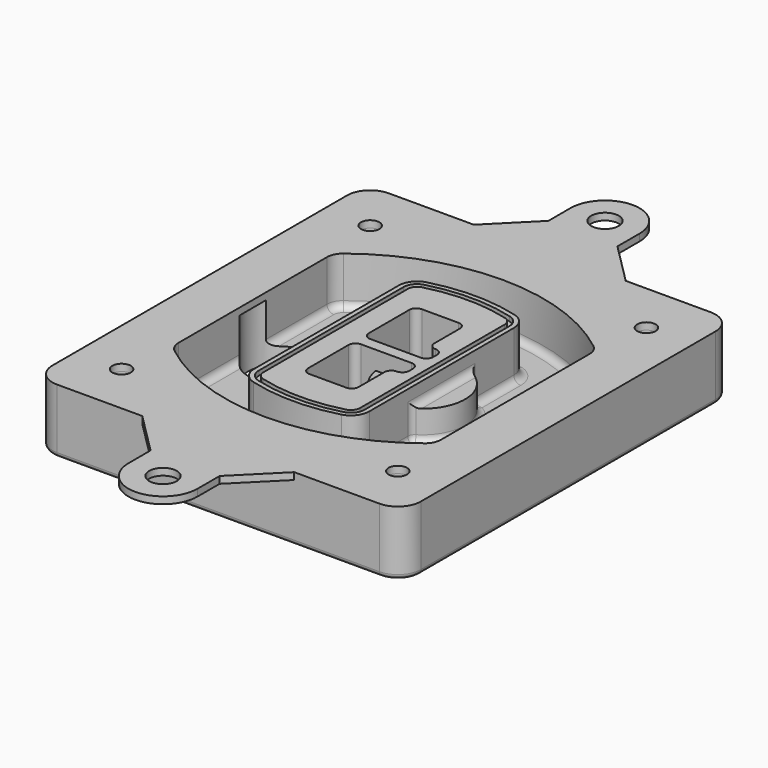
from build123d import *

# Parameters (mm, degrees)
F0_R      = 4
F1_DEPTH  = 25
F2_DEPTH  = 3
F3_DEPTH  = 18
F5_DEPTH  = 21
F6_DEPTH  = 2
F8_DEPTH  = 20
F9_DEPTH  = 16
F10_DEPTH = 25
F7_R      = 6
F7_R_2    = 4
F11_DEPTH = 6
F13_DEPTH = 9
F14_R     = 3
F15_R     = 2
F16_R     = 4
F16_R_2   = 6
F17_DEPTH = 3


with BuildPart() as f1:
    # F0 (on Top) → F1 (new body)
    with BuildSketch(Plane.XY):
        with BuildLine():
            ThreePointArc((-80, -80), (-77.0710678119, -87.0710678119), (-70, -90))
            Line((-70, -90), (70, -90))
            ThreePointArc((70, -90), (77.0710678119, -87.0710678119), (80, -80))
            Line((80, -80), (80, 80))
            ThreePointArc((80, 80), (77.0710678119, 87.0710678119), (70, 90))
            Line((70, 90), (-70, 90))
            ThreePointArc((-70, 90), (-77.0710678119, 87.0710678119), (-80, 80))
            Line((-80, 80), (-80, -80))
        make_face()
        with Locations((-60, -67.5)):
            Circle(F0_R, mode=Mode.SUBTRACT)
        with Locations((60, -67.5)):
            Circle(F0_R, mode=Mode.SUBTRACT)
        with Locations((-60, 67.5)):
            Circle(F0_R, mode=Mode.SUBTRACT)
        with BuildLine():
            ThreePointArc((-64, 40.2934422872), (-62.5820384798, 46.4328484224), (-58.6153846154, 51.3286200352))
            ThreePointArc((-58.6153846154, 51.3286200352), (0, 71.5), (58.6153846154, 51.3286200352))
            ThreePointArc((58.6153846154, 51.3286200352), (62.5820384798, 46.4328484224), (64, 40.2934422872))
            Line((64, 40.2934422872), (64, -40.2934422872))
            ThreePointArc((64, -40.2934422872), (62.5820384798, -46.4328484224), (58.6153846154, -51.3286200352))
            ThreePointArc((58.6153846154, -51.3286200352), (0, -71.5), (-58.6153846154, -51.3286200352))
            ThreePointArc((-58.6153846154, -51.3286200352), (-62.5820384798, -46.4328484224), (-64, -40.2934422872))
            Line((-64, -40.2934422872), (-64, 40.2934422872))
        make_face(mode=Mode.SUBTRACT)
        with Locations((60, 67.5)):
            Circle(F0_R, mode=Mode.SUBTRACT)
        with BuildLine():
            ThreePointArc((58.6153846154, 51.3286200352), (0, 71.5), (-58.6153846154, 51.3286200352))
            ThreePointArc((-58.6153846154, 51.3286200352), (-62.5820384798, 46.4328484224), (-64, 40.2934422872))
            Line((-64, 40.2934422872), (-64, -40.2934422872))
            ThreePointArc((-64, -40.2934422872), (-62.5820384798, -46.4328484224), (-58.6153846154, -51.3286200352))
            ThreePointArc((-58.6153846154, -51.3286200352), (0, -71.5), (58.6153846154, -51.3286200352))
            ThreePointArc((58.6153846154, -51.3286200352), (62.5820384798, -46.4328484224), (64, -40.2934422872))
            Line((64, -40.2934422872), (64, 40.2934422872))
            ThreePointArc((64, 40.2934422872), (62.5820384798, 46.4328484224), (58.6153846154, 51.3286200352))
        make_face()
        with BuildLine():
            Line((-60, -40.2934422872), (-60, 40.2934422872))
            ThreePointArc((-60, 40.2934422872), (-58.9871703427, 44.6787323838), (-56.1538461538, 48.1757121072))
            ThreePointArc((-56.1538461538, 48.1757121072), (0, 67.5), (56.1538461538, 48.1757121072))
            ThreePointArc((56.1538461538, 48.1757121072), (58.9871703427, 44.6787323838), (60, 40.2934422872))
            Line((60, 40.2934422872), (60, -40.2934422872))
            ThreePointArc((60, -40.2934422872), (58.9871703427, -44.6787323838), (56.1538461538, -48.1757121072))
            ThreePointArc((56.1538461538, -48.1757121072), (0, -67.5), (-56.1538461538, -48.1757121072))
            ThreePointArc((-56.1538461538, -48.1757121072), (-58.9871703427, -44.6787323838), (-60, -40.2934422872))
        make_face(mode=Mode.SUBTRACT)
        with BuildLine():
            ThreePointArc((-56.1538461538, 48.1757121072), (-58.9871703427, 44.6787323838), (-60, 40.2934422872))
            Line((-60, 40.2934422872), (-60, -40.2934422872))
            ThreePointArc((-60, -40.2934422872), (-58.9871703427, -44.6787323838), (-56.1538461538, -48.1757121072))
            ThreePointArc((-56.1538461538, -48.1757121072), (0, -67.5), (56.1538461538, -48.1757121072))
            ThreePointArc((56.1538461538, -48.1757121072), (58.9871703427, -44.6787323838), (60, -40.2934422872))
            Line((60, -40.2934422872), (60, 40.2934422872))
            ThreePointArc((60, 40.2934422872), (58.9871703427, 44.6787323838), (56.1538461538, 48.1757121072))
            ThreePointArc((56.1538461538, 48.1757121072), (0, 67.5), (-56.1538461538, 48.1757121072))
        make_face()
        with BuildLine():
            ThreePointArc((54.3076923077, 45.8110311612), (56.2910192399, 43.3631453548), (57, 40.2934422872))
            Line((57, 40.2934422872), (57, -40.2934422872))
            ThreePointArc((57, -40.2934422872), (56.2910192399, -43.3631453548), (54.3076923077, -45.8110311612))
            ThreePointArc((54.3076923077, -45.8110311612), (0, -64.5), (-54.3076923077, -45.8110311612))
            ThreePointArc((-54.3076923077, -45.8110311612), (-56.2910192399, -43.3631453548), (-57, -40.2934422872))
            Line((-57, -40.2934422872), (-57, 40.2934422872))
            ThreePointArc((-57, 40.2934422872), (-56.2910192399, 43.3631453548), (-54.3076923077, 45.8110311612))
            ThreePointArc((-54.3076923077, 45.8110311612), (0, 64.5), (54.3076923077, 45.8110311612))
        make_face(mode=Mode.SUBTRACT)
        with BuildLine():
            Line((57, -40.2934422872), (57, 40.2934422872))
            ThreePointArc((57, 40.2934422872), (56.2910192399, 43.3631453548), (54.3076923077, 45.8110311612))
            ThreePointArc((54.3076923077, 45.8110311612), (0, 64.5), (-54.3076923077, 45.8110311612))
            ThreePointArc((-54.3076923077, 45.8110311612), (-56.2910192399, 43.3631453548), (-57, 40.2934422872))
            Line((-57, 40.2934422872), (-57, -40.2934422872))
            ThreePointArc((-57, -40.2934422872), (-56.2910192399, -43.3631453548), (-54.3076923077, -45.8110311612))
            ThreePointArc((-54.3076923077, -45.8110311612), (0, -64.5), (54.3076923077, -45.8110311612))
            ThreePointArc((54.3076923077, -45.8110311612), (56.2910192399, -43.3631453548), (57, -40.2934422872))
        make_face()
    extrude(amount=-F1_DEPTH)

    # F0 (on Top) → F2 (join)
    with BuildSketch(Plane.XY):
        with BuildLine():
            ThreePointArc((-56.1538461538, 48.1757121072), (-58.9871703427, 44.6787323838), (-60, 40.2934422872))
            Line((-60, 40.2934422872), (-60, -40.2934422872))
            ThreePointArc((-60, -40.2934422872), (-58.9871703427, -44.6787323838), (-56.1538461538, -48.1757121072))
            ThreePointArc((-56.1538461538, -48.1757121072), (0, -67.5), (56.1538461538, -48.1757121072))
            ThreePointArc((56.1538461538, -48.1757121072), (58.9871703427, -44.6787323838), (60, -40.2934422872))
            Line((60, -40.2934422872), (60, 40.2934422872))
            ThreePointArc((60, 40.2934422872), (58.9871703427, 44.6787323838), (56.1538461538, 48.1757121072))
            ThreePointArc((56.1538461538, 48.1757121072), (0, 67.5), (-56.1538461538, 48.1757121072))
        make_face()
        with BuildLine():
            ThreePointArc((54.3076923077, 45.8110311612), (56.2910192399, 43.3631453548), (57, 40.2934422872))
            Line((57, 40.2934422872), (57, -40.2934422872))
            ThreePointArc((57, -40.2934422872), (56.2910192399, -43.3631453548), (54.3076923077, -45.8110311612))
            ThreePointArc((54.3076923077, -45.8110311612), (0, -64.5), (-54.3076923077, -45.8110311612))
            ThreePointArc((-54.3076923077, -45.8110311612), (-56.2910192399, -43.3631453548), (-57, -40.2934422872))
            Line((-57, -40.2934422872), (-57, 40.2934422872))
            ThreePointArc((-57, 40.2934422872), (-56.2910192399, 43.3631453548), (-54.3076923077, 45.8110311612))
            ThreePointArc((-54.3076923077, 45.8110311612), (0, 64.5), (54.3076923077, 45.8110311612))
        make_face(mode=Mode.SUBTRACT)
    extrude(amount=F2_DEPTH)

    # F0 (on Top) → F3 (cut)
    with BuildSketch(Plane.XY):
        with BuildLine():
            Line((57, -40.2934422872), (57, 40.2934422872))
            ThreePointArc((57, 40.2934422872), (56.2910192399, 43.3631453548), (54.3076923077, 45.8110311612))
            ThreePointArc((54.3076923077, 45.8110311612), (0, 64.5), (-54.3076923077, 45.8110311612))
            ThreePointArc((-54.3076923077, 45.8110311612), (-56.2910192399, 43.3631453548), (-57, 40.2934422872))
            Line((-57, 40.2934422872), (-57, -40.2934422872))
            ThreePointArc((-57, -40.2934422872), (-56.2910192399, -43.3631453548), (-54.3076923077, -45.8110311612))
            ThreePointArc((-54.3076923077, -45.8110311612), (0, -64.5), (54.3076923077, -45.8110311612))
            ThreePointArc((54.3076923077, -45.8110311612), (56.2910192399, -43.3631453548), (57, -40.2934422872))
        make_face()
    extrude(amount=-F3_DEPTH, mode=Mode.SUBTRACT)

    # F4 (on face) → F5 (join, through all)
    with BuildSketch(Plane.XY.offset(3)):
        with BuildLine():
            ThreePointArc((-25, -39.2465276821), (-23.3511545998, -44.1109737193), (-19.0842911877, -46.9702398883))
            ThreePointArc((-19.0842911877, -46.9702398883), (0, -49.5), (19.0842911877, -46.9702398883))
            ThreePointArc((19.0842911877, -46.9702398883), (23.3511545998, -44.1109737193), (25, -39.2465276821))
            Line((25, -39.2465276821), (25, 39.2465276821))
            ThreePointArc((25, 39.2465276821), (23.3511545998, 44.1109737193), (19.0842911877, 46.9702398883))
            ThreePointArc((19.0842911877, 46.9702398883), (0, 49.5), (-19.0842911877, 46.9702398883))
            ThreePointArc((-19.0842911877, 46.9702398883), (-23.3511545998, 44.1109737193), (-25, 39.2465276821))
            Line((-25, 39.2465276821), (-25, -39.2465276821))
        make_face()
        with BuildLine():
            ThreePointArc((18.5632183908, 45.0393118368), (21.7633659499, 42.89486221), (23, 39.2465276821))
            Line((23, 39.2465276821), (23, -39.2465276821))
            ThreePointArc((23, -39.2465276821), (21.7633659499, -42.89486221), (18.5632183908, -45.0393118368))
            ThreePointArc((18.5632183908, -45.0393118368), (0, -47.5), (-18.5632183908, -45.0393118368))
            ThreePointArc((-18.5632183908, -45.0393118368), (-21.7633659499, -42.89486221), (-23, -39.2465276821))
            Line((-23, -39.2465276821), (-23, 39.2465276821))
            ThreePointArc((-23, 39.2465276821), (-21.7633659499, 42.89486221), (-18.5632183908, 45.0393118368))
            ThreePointArc((-18.5632183908, 45.0393118368), (0, 47.5), (18.5632183908, 45.0393118368))
        make_face(mode=Mode.SUBTRACT)
        with BuildLine():
            Line((23, -39.2465276821), (23, 39.2465276821))
            ThreePointArc((23, 39.2465276821), (21.7633659499, 42.89486221), (18.5632183908, 45.0393118368))
            ThreePointArc((18.5632183908, 45.0393118368), (0, 47.5), (-18.5632183908, 45.0393118368))
            ThreePointArc((-18.5632183908, 45.0393118368), (-21.7633659499, 42.89486221), (-23, 39.2465276821))
            Line((-23, 39.2465276821), (-23, -39.2465276821))
            ThreePointArc((-23, -39.2465276821), (-21.7633659499, -42.89486221), (-18.5632183908, -45.0393118368))
            ThreePointArc((-18.5632183908, -45.0393118368), (0, -47.5), (18.5632183908, -45.0393118368))
            ThreePointArc((18.5632183908, -45.0393118368), (21.7633659499, -42.89486221), (23, -39.2465276821))
        make_face()
        with BuildLine():
            ThreePointArc((18.0421455939, 43.1083837852), (20.1755772999, 41.6787507007), (21, 39.2465276821))
            Line((21, 39.2465276821), (21, -39.2465276821))
            ThreePointArc((21, -39.2465276821), (20.1755772999, -41.6787507007), (18.0421455939, -43.1083837852))
            ThreePointArc((18.0421455939, -43.1083837852), (0, -45.5), (-18.0421455939, -43.1083837852))
            ThreePointArc((-18.0421455939, -43.1083837852), (-20.1755772999, -41.6787507007), (-21, -39.2465276821))
            Line((-21, -39.2465276821), (-21, 39.2465276821))
            ThreePointArc((-21, 39.2465276821), (-20.1755772999, 41.6787507007), (-18.0421455939, 43.1083837852))
            ThreePointArc((-18.0421455939, 43.1083837852), (0, 45.5), (18.0421455939, 43.1083837852))
        make_face(mode=Mode.SUBTRACT)
        with BuildLine():
            Line((21, -39.2465276821), (21, 39.2465276821))
            ThreePointArc((21, 39.2465276821), (20.1755772999, 41.6787507007), (18.0421455939, 43.1083837852))
            ThreePointArc((18.0421455939, 43.1083837852), (0, 45.5), (-18.0421455939, 43.1083837852))
            ThreePointArc((-18.0421455939, 43.1083837852), (-20.1755772999, 41.6787507007), (-21, 39.2465276821))
            Line((-21, 39.2465276821), (-21, -39.2465276821))
            ThreePointArc((-21, -39.2465276821), (-20.1755772999, -41.6787507007), (-18.0421455939, -43.1083837852))
            ThreePointArc((-18.0421455939, -43.1083837852), (0, -45.5), (18.0421455939, -43.1083837852))
            ThreePointArc((18.0421455939, -43.1083837852), (20.1755772999, -41.6787507007), (21, -39.2465276821))
        make_face()
        with BuildLine():
            Line((-8, -2.5), (14, -2.5))
            ThreePointArc((14, -2.5), (16.1213203436, -3.3786796564), (17, -5.5))
            Line((17, -5.5), (17, -7.5))
            ThreePointArc((17, -7.5), (16.1213203436, -9.6213203436), (14, -10.5))
            ThreePointArc((14, -10.5), (11.8786796564, -11.3786796564), (11, -13.5))
            Line((11, -13.5), (11, -27.5))
            ThreePointArc((11, -27.5), (10.1213203436, -29.6213203436), (8, -30.5))
            Line((8, -30.5), (-8, -30.5))
            ThreePointArc((-8, -30.5), (-10.1213203436, -29.6213203436), (-11, -27.5))
            Line((-11, -27.5), (-11, -5.5))
            ThreePointArc((-11, -5.5), (-10.1213203436, -3.3786796564), (-8, -2.5))
        make_face(mode=Mode.SUBTRACT)
        with BuildLine():
            ThreePointArc((-8, 2.5), (-10.1213203436, 3.3786796564), (-11, 5.5))
            Line((-11, 5.5), (-11, 27.5))
            ThreePointArc((-11, 27.5), (-10.1213203436, 29.6213203436), (-8, 30.5))
            Line((-8, 30.5), (8, 30.5))
            ThreePointArc((8, 30.5), (10.1213203436, 29.6213203436), (11, 27.5))
            Line((11, 27.5), (11, 13.5))
            ThreePointArc((11, 13.5), (11.8786796564, 11.3786796564), (14, 10.5))
            ThreePointArc((14, 10.5), (16.1213203436, 9.6213203436), (17, 7.5))
            Line((17, 7.5), (17, 5.5))
            ThreePointArc((17, 5.5), (16.1213203436, 3.3786796564), (14, 2.5))
            Line((14, 2.5), (-8, 2.5))
        make_face(mode=Mode.SUBTRACT)
    extrude(amount=-F5_DEPTH)

    # F4 (on face) → F6 (cut)
    with BuildSketch(Plane.XY.offset(3)):
        with BuildLine():
            Line((23, -39.2465276821), (23, 39.2465276821))
            ThreePointArc((23, 39.2465276821), (21.7633659499, 42.89486221), (18.5632183908, 45.0393118368))
            ThreePointArc((18.5632183908, 45.0393118368), (0, 47.5), (-18.5632183908, 45.0393118368))
            ThreePointArc((-18.5632183908, 45.0393118368), (-21.7633659499, 42.89486221), (-23, 39.2465276821))
            Line((-23, 39.2465276821), (-23, -39.2465276821))
            ThreePointArc((-23, -39.2465276821), (-21.7633659499, -42.89486221), (-18.5632183908, -45.0393118368))
            ThreePointArc((-18.5632183908, -45.0393118368), (0, -47.5), (18.5632183908, -45.0393118368))
            ThreePointArc((18.5632183908, -45.0393118368), (21.7633659499, -42.89486221), (23, -39.2465276821))
        make_face()
        with BuildLine():
            ThreePointArc((18.0421455939, 43.1083837852), (20.1755772999, 41.6787507007), (21, 39.2465276821))
            Line((21, 39.2465276821), (21, -39.2465276821))
            ThreePointArc((21, -39.2465276821), (20.1755772999, -41.6787507007), (18.0421455939, -43.1083837852))
            ThreePointArc((18.0421455939, -43.1083837852), (0, -45.5), (-18.0421455939, -43.1083837852))
            ThreePointArc((-18.0421455939, -43.1083837852), (-20.1755772999, -41.6787507007), (-21, -39.2465276821))
            Line((-21, -39.2465276821), (-21, 39.2465276821))
            ThreePointArc((-21, 39.2465276821), (-20.1755772999, 41.6787507007), (-18.0421455939, 43.1083837852))
            ThreePointArc((-18.0421455939, 43.1083837852), (0, 45.5), (18.0421455939, 43.1083837852))
        make_face(mode=Mode.SUBTRACT)
    extrude(amount=-F6_DEPTH, mode=Mode.SUBTRACT)

    # F7 (on face) → F8 (join)
    with BuildSketch(Plane(origin=(0, 0, -25), x_dir=(1, 0, 0), z_dir=(0, 0, -1))):
        with BuildLine():
            ThreePointArc((3.28842436, 0), (16.7567035675, 13.4682792075), (30.224982775, 0))
            Line((30.224982775, 0), (35.224982775, 0))
            ThreePointArc((35.224982775, 0), (16.7567035675, 18.4682792075), (-1.71157564, 0))
            Line((-1.71157564, 0), (3.28842436, 0))
        make_face()
        with BuildLine():
            Line((3.28842436, 0), (30.224982775, 0))
            ThreePointArc((30.224982775, 0), (16.7567035675, 13.4682792075), (3.28842436, 0))
        make_face()
        with BuildLine():
            ThreePointArc((3.28842436, 0), (16.7567035675, -13.4682792075), (30.224982775, 0))
            Line((30.224982775, 0), (3.28842436, 0))
        make_face()
        with BuildLine():
            Line((35.224982775, 0), (30.224982775, 0))
            ThreePointArc((30.224982775, 0), (16.7567035675, -13.4682792075), (3.28842436, 0))
            Line((3.28842436, 0), (-1.71157564, 0))
            ThreePointArc((-1.71157564, 0), (16.7567035675, -18.4682792075), (35.224982775, 0))
        make_face()
    extrude(amount=-F8_DEPTH)

    # F7 (on face) → F9 (cut)
    with BuildSketch(Plane(origin=(0, 0, -25), x_dir=(1, 0, 0), z_dir=(0, 0, -1))):
        with BuildLine():
            Line((3.28842436, 0), (30.224982775, 0))
            ThreePointArc((30.224982775, 0), (16.7567035675, 13.4682792075), (3.28842436, 0))
        make_face()
        with BuildLine():
            ThreePointArc((3.28842436, 0), (16.7567035675, -13.4682792075), (30.224982775, 0))
            Line((30.224982775, 0), (3.28842436, 0))
        make_face()
    extrude(amount=-F9_DEPTH, mode=Mode.SUBTRACT)

    # F7 (on face) → F10 (cut)
    with BuildSketch(Plane(origin=(0, 0, -25), x_dir=(1, 0, 0), z_dir=(0, 0, -1))):
        with BuildLine():
            Line((-59.0318229325, 0), (-32.0952645175, 0))
            ThreePointArc((-32.0952645175, 0), (-45.563543725, 13.4682792075), (-59.0318229325, 0))
        make_face()
        with BuildLine():
            ThreePointArc((-59.0318229325, 0), (-45.563543725, -13.4682792075), (-32.0952645175, 0))
            Line((-32.0952645175, 0), (-59.0318229325, 0))
        make_face()
    extrude(amount=-F10_DEPTH, mode=Mode.SUBTRACT)

    # F7 (on face) → F11 (cut)
    with BuildSketch(Plane(origin=(0, 0, -25), x_dir=(1, 0, 0), z_dir=(0, 0, -1))):
        with Locations((60, -67.5)):
            Circle(F7_R)
        with Locations((60, -67.5)):
            Circle(F7_R_2, mode=Mode.SUBTRACT)
        with Locations((60, -67.5)):
            Circle(F7_R)
        with Locations((60, -67.5)):
            Circle(F7_R_2, mode=Mode.SUBTRACT)
        with Locations((-60, -67.5)):
            Circle(F7_R)
        with Locations((-60, -67.5)):
            Circle(F7_R_2, mode=Mode.SUBTRACT)
        with Locations((-60, -67.5)):
            Circle(F7_R)
        with Locations((-60, -67.5)):
            Circle(F7_R_2, mode=Mode.SUBTRACT)
        with Locations((-60, 67.5)):
            Circle(F7_R)
        with Locations((-60, 67.5)):
            Circle(F7_R_2, mode=Mode.SUBTRACT)
        with Locations((-60, 67.5)):
            Circle(F7_R)
        with Locations((-60, 67.5)):
            Circle(F7_R_2, mode=Mode.SUBTRACT)
        with Locations((60, 67.5)):
            Circle(F7_R)
        with Locations((60, 67.5)):
            Circle(F7_R_2, mode=Mode.SUBTRACT)
        with Locations((60, 67.5)):
            Circle(F7_R)
        with Locations((60, 67.5)):
            Circle(F7_R_2, mode=Mode.SUBTRACT)
    extrude(amount=-F11_DEPTH, mode=Mode.SUBTRACT)

    # F12 (on face) → F13 (cut, through all)
    with BuildSketch(Plane(origin=(0, 0, -9), x_dir=(1, 0, 0), z_dir=(0, 0, -1))):
        with BuildLine():
            Line((11, 13.5), (11, 17.5481537753))
            ThreePointArc((11, 17.5481537753), (2.5696536419, 11.8239143813), (-1.5415842455, 2.5))
            Line((-1.5415842455, 2.5), (3.5224848595, 2.5))
            ThreePointArc((3.5224848595, 2.5), (6.1857188154, 8.3455872281), (11.2536447004, 12.2927168648))
            ThreePointArc((11.2536447004, 12.2927168648), (11.0640958889, 12.8831798879), (11, 13.5))
        make_face()
        with BuildLine():
            ThreePointArc((11.2536447004, -12.2927168648), (6.1857188154, -8.3455872281), (3.5224848595, -2.5))
            Line((3.5224848595, -2.5), (-1.5415842455, -2.5))
            ThreePointArc((-1.5415842455, -2.5), (2.5696536419, -11.8239143813), (11, -17.5481537753))
            Line((11, -17.5481537753), (11, -13.5))
            ThreePointArc((11, -13.5), (11.0640958889, -12.8831798879), (11.2536447004, -12.2927168648))
        make_face()
        with BuildLine():
            ThreePointArc((11.2536447004, 12.2927168648), (6.1857188154, 8.3455872281), (3.5224848595, 2.5))
            Line((3.5224848595, 2.5), (14, 2.5))
            ThreePointArc((14, 2.5), (16.1213203436, 3.3786796564), (17, 5.5))
            Line((17, 5.5), (17, 7.5))
            ThreePointArc((17, 7.5), (16.1213203436, 9.6213203436), (14, 10.5))
            ThreePointArc((14, 10.5), (12.3601599782, 10.9878446101), (11.2536447004, 12.2927168648))
        make_face()
        with BuildLine():
            Line((14, -2.5), (3.5224848595, -2.5))
            ThreePointArc((3.5224848595, -2.5), (6.1857188154, -8.3455872281), (11.2536447004, -12.2927168648))
            ThreePointArc((11.2536447004, -12.2927168648), (12.3601599782, -10.9878446101), (14, -10.5))
            ThreePointArc((14, -10.5), (16.1213203436, -9.6213203436), (17, -7.5))
            Line((17, -7.5), (17, -5.5))
            ThreePointArc((17, -5.5), (16.1213203436, -3.3786796564), (14, -2.5))
        make_face()
    extrude(amount=F13_DEPTH, mode=Mode.SUBTRACT)

    # F14
    f14_edges = [f1.edges().sort_by_distance(p)[0] for p in [
        (-57, -23.703476, -18),
        (-57, 23.703476, -18),
        (25, 0, -5),
        (25, 16.526506, -11.5),
        (25, -16.526506, -11.5),
        (25, -27.886517, -18),
        (35.224983, 0, -18),
    ]]
    fillet(f14_edges, radius=F14_R)

    # F15
    f15_edges = [f1.edges().sort_by_distance(p)[0] for p in [
        (0, -90, -25),
    ]]
    fillet(f15_edges, radius=F15_R)

    # F16 (on face) → F17 (join, through all)
    with BuildSketch(Plane.XY):
        with BuildLine():
            Line((33, 90), (-33, 90))
            Line((-33, 90), (-70, 90))
            ThreePointArc((-70, 90), (-77.0710678119, 87.0710678119), (-80, 80))
            Line((-80, 80), (-80, -80))
            ThreePointArc((-80, -80), (-77.0710678119, -87.0710678119), (-70, -90))
            Line((-70, -90), (-33, -90))
            Line((-33, -90), (33, -90))
            Line((33, -90), (70, -90))
            ThreePointArc((70, -90), (77.0710678119, -87.0710678119), (80, -80))
            Line((80, -80), (80, 80))
            ThreePointArc((80, 80), (77.0710678119, 87.0710678119), (70, 90))
            Line((70, 90), (33, 90))
        make_face()
        with Locations((-60, -67.5)):
            Circle(F16_R, mode=Mode.SUBTRACT)
        with Locations((60, -67.5)):
            Circle(F16_R, mode=Mode.SUBTRACT)
        with Locations((-60, 67.5)):
            Circle(F16_R, mode=Mode.SUBTRACT)
        with BuildLine():
            ThreePointArc((-60, 40.2934422872), (-58.9871703427, 44.6787323838), (-56.1538461538, 48.1757121072))
            ThreePointArc((-56.1538461538, 48.1757121072), (0, 67.5), (56.1538461538, 48.1757121072))
            ThreePointArc((56.1538461538, 48.1757121072), (58.9871703427, 44.6787323838), (60, 40.2934422872))
            Line((60, 40.2934422872), (60, -40.2934422872))
            ThreePointArc((60, -40.2934422872), (58.9871703427, -44.6787323838), (56.1538461538, -48.1757121072))
            ThreePointArc((56.1538461538, -48.1757121072), (0, -67.5), (-56.1538461538, -48.1757121072))
            ThreePointArc((-56.1538461538, -48.1757121072), (-58.9871703427, -44.6787323838), (-60, -40.2934422872))
            Line((-60, -40.2934422872), (-60, 40.2934422872))
        make_face(mode=Mode.SUBTRACT)
        with Locations((60, 67.5)):
            Circle(F16_R, mode=Mode.SUBTRACT)
        with BuildLine():
            Line((33, -90), (-33, -90))
            Line((-33, -90), (-15, -108))
            Line((-15, -108), (-15, -120))
            ThreePointArc((-15, -120), (0, -135), (15, -120))
            Line((15, -120), (15, -108))
            Line((15, -108), (33, -90))
        make_face()
        with Locations((0, -120)):
            Circle(F16_R_2, mode=Mode.SUBTRACT)
        with BuildLine():
            Line((-15, 108), (-33, 90))
            Line((-33, 90), (33, 90))
            Line((33, 90), (15, 108))
            Line((15, 108), (15, 120))
            ThreePointArc((15, 120), (0, 135), (-15, 120))
            Line((-15, 120), (-15, 108))
        make_face()
        with Locations((0, 120)):
            Circle(F16_R_2, mode=Mode.SUBTRACT)
    extrude(amount=F17_DEPTH)


solid = f1.part
